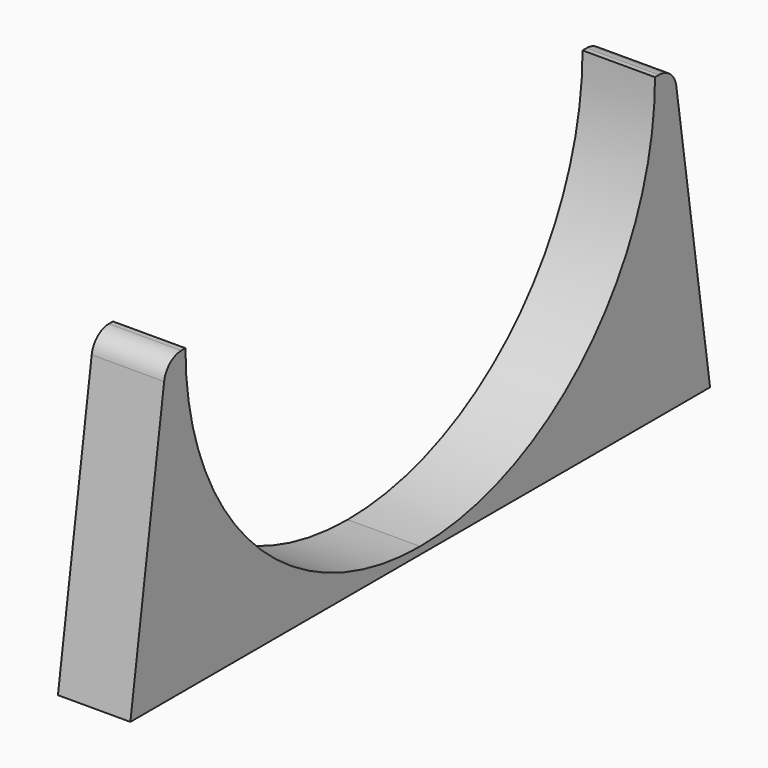
from build123d import *

# Parameters (mm, degrees)
F1_DEPTH = 10
F2_R     = 3


with BuildPart() as f1:
    # F0 (on Right) → F1 (new body)
    with BuildSketch(Plane.YZ):
        with BuildLine():
            ThreePointArc((0, -40.5), (-28.653264, -28.622377), (-40.499976, 0.043681))
            Line((-40.499976, 0.043681), (-43.792324, 0.043681))
            Line((-43.792324, 0.043681), (-50, -41.5))
            Line((-50, -41.5), (0, -41.5))
            Line((0, -41.5), (0, -40.5))
        make_face()
        with BuildLine():
            ThreePointArc((40.499976, 0.043681), (28.653264, -28.622377), (0, -40.5))
            Line((0, -40.5), (0, -41.5))
            Line((0, -41.5), (50, -41.5))
            Line((50, -41.5), (43.792324, 0.043681))
            Line((43.792324, 0.043681), (40.499976, 0.043681))
        make_face()
    extrude(amount=F1_DEPTH)

    # F2
    f2_edges = [f1.edges().sort_by_distance(p)[0] for p in [
        (5, -43.792324, 0.043681),
        (5, 43.792324, 0.043681),
    ]]
    fillet(f2_edges, radius=F2_R)


solid = f1.part
